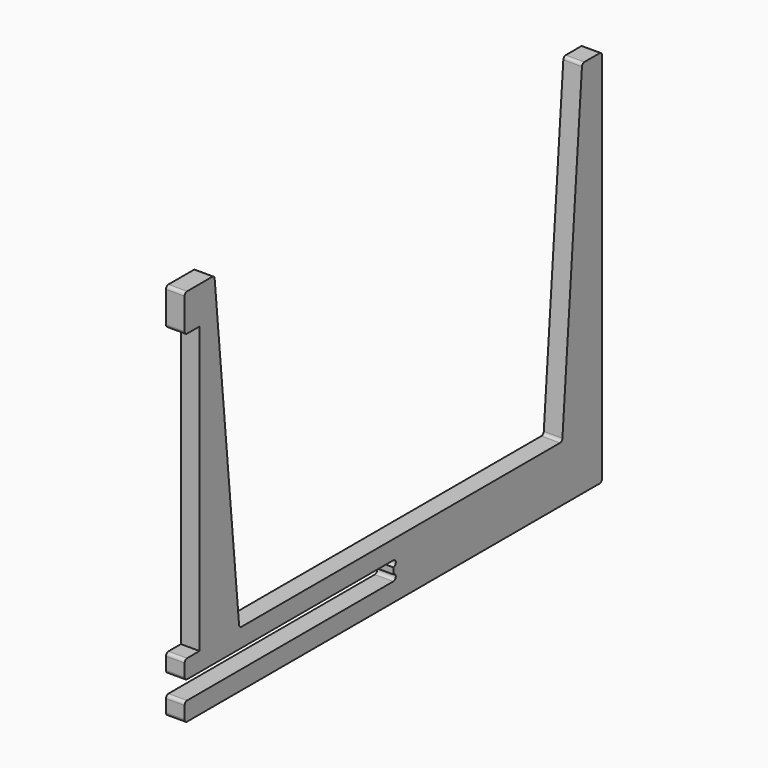
from build123d import *

# Parameters (mm, degrees)
F2_DEPTH = 19.05
F3_R     = 3.175
F5_DEPTH = 19.05
F6_R     = 3.175


with BuildPart() as f2:
    # F1 (on offset) → F2 (new body)
    with BuildSketch(Plane.YZ.offset(19.05)):
        Polygon((-19.05, 19.05), (-19.05, 0), (514.35, 0), (514.35, 387.35), (488.95, 387.35), (463.55, 57.15), (50.8, 57.15), (19.05, 387.35), (-19.05, 387.35), (-19.05, 349.25), (0, 349.25), (0, 57.15), (-19.05, 57.15), (-19.05, 38.1), (247.65, 38.1), (247.65, 19.05), align=None)
    extrude(amount=F2_DEPTH)

    # F3
    f3_edges = [f2.edges().sort_by_distance(p)[0] for p in [
        (28.575, -19.05, 0),
        (28.575, -19.05, 19.05),
        (28.575, -19.05, 38.1),
        (28.575, -19.05, 57.15),
        (28.575, -19.05, 349.25),
        (28.575, -19.05, 387.35),
        (28.575, 19.05, 387.35),
        (28.575, 50.8, 57.15),
        (28.575, 463.55, 57.15),
        (28.575, 488.95, 387.35),
    ]]
    fillet(f3_edges, radius=F3_R)

    # F4 (on face) → F5 (cut)
    with BuildSketch(Plane.YZ.offset(38.1)):
        with BuildLine():
            Line((247.65, 25.4), (247.65, 19.05))
            ThreePointArc((247.65, 19.05), (250.825, 22.225), (247.65, 25.4))
        make_face()
        with BuildLine():
            ThreePointArc((247.65, 31.75), (250.825, 34.925), (247.65, 38.1))
            Line((247.65, 38.1), (247.65, 31.75))
        make_face()
    extrude(amount=-F5_DEPTH, mode=Mode.SUBTRACT)

    # F6
    f6_edges = [f2.edges().sort_by_distance(p)[0] for p in [
        (28.575, 514.35, 0),
        (28.575, 514.35, 387.35),
    ]]
    fillet(f6_edges, radius=F6_R)


solid = f2.part
